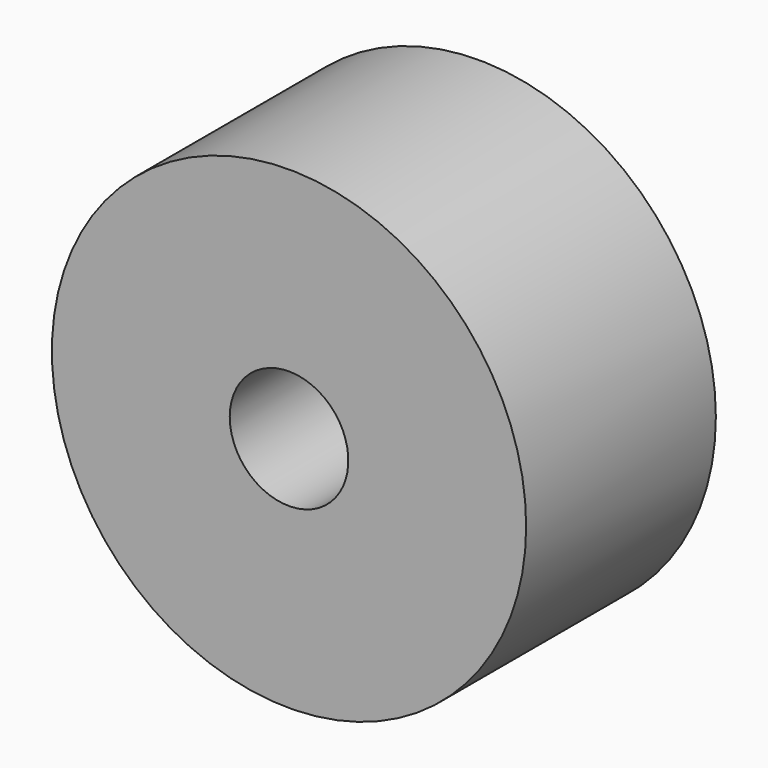
from build123d import *

# Parameters (mm, degrees)
F0_R           = 25.4
F1_DEPTH       = 25.4
F2_D           = 12.7
F2_CBORE_D     = 38.1
F2_CBORE_DEPTH = 0


with BuildPart() as f1:
    # F0 (on Front) → F1 (new body)
    with BuildSketch(Plane.XZ):
        with Locations((-55.9345930815, 12.8522859886)):
            Circle(F0_R)
    extrude(amount=F1_DEPTH)

    # F2 (through all)
    with Locations(Plane(origin=(0, 0, 0), x_dir=(1, 0, 0), z_dir=(0, 1, 0))):
        with Locations((-55.9345930815, -12.8522859886)):
            CounterBoreHole(F2_D / 2, F2_CBORE_D / 2, F2_CBORE_DEPTH)


solid = f1.part
